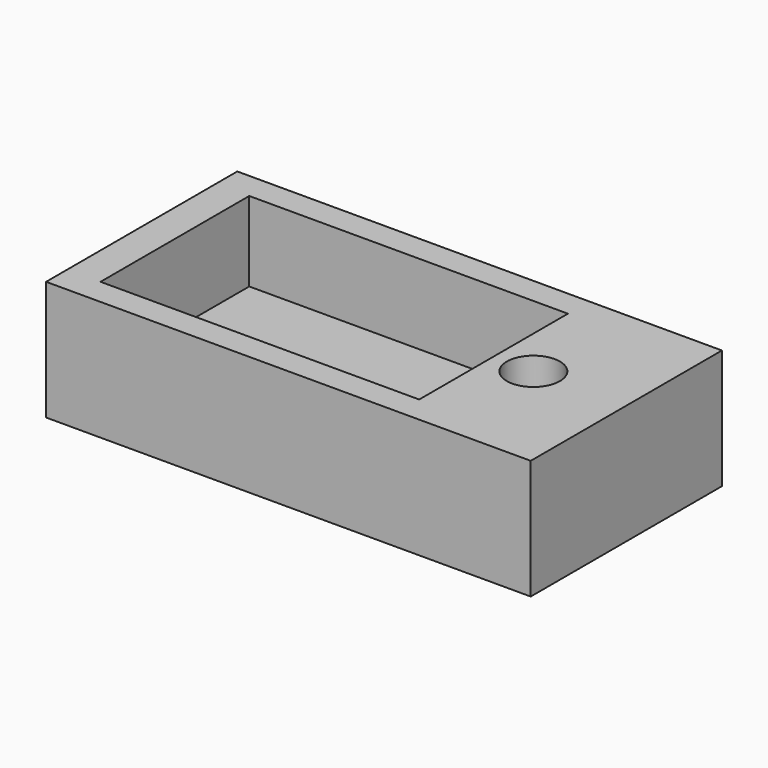
from build123d import *

# Parameters (mm, degrees)
F0_W     = 365
F0_H     = 180
F1_DEPTH = 90
F2_W     = 240
F2_H     = 140
F3_DEPTH = 60
F4_R     = 20
F5_DEPTH = 90.001


with BuildPart() as f1:
    # F0 (on Top) → F1 (new body)
    with BuildSketch(Plane.XY):
        with Locations((182.5, 90)):
            Rectangle(F0_W, F0_H)
    extrude(amount=F1_DEPTH)

    # F2 (on face) → F3 (cut)
    with BuildSketch(Plane.XY.offset(90)):
        with Locations((145, 90)):
            Rectangle(F2_W, F2_H)
    extrude(amount=-F3_DEPTH, mode=Mode.SUBTRACT)

    # F4 (on face) → F5 (cut, through all)
    with BuildSketch(Plane.XY.offset(90)):
        with Locations((295, 90)):
            Circle(F4_R)
    extrude(amount=-F5_DEPTH, mode=Mode.SUBTRACT)


solid = f1.part
